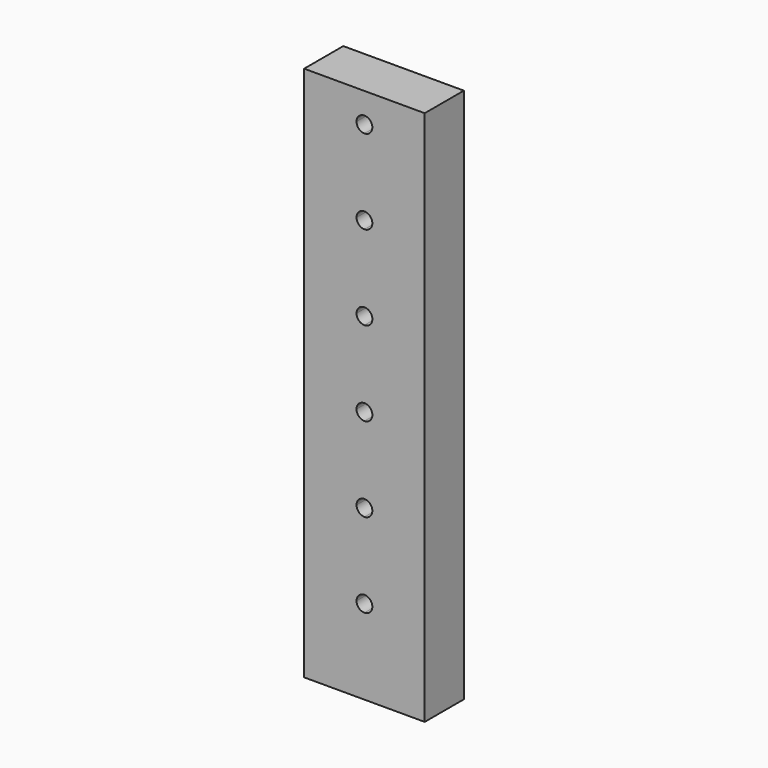
from build123d import *

# Parameters (mm, degrees)
F0_W     = 22.86
F0_H     = 9.271
F1_DEPTH = 101.6
F2_R     = 1.5
F3_DEPTH = 25.4


with BuildPart() as f1:
    # F0 (on Top) → F1 (new body)
    with BuildSketch(Plane.XY):
        Rectangle(F0_W, F0_H)
    extrude(amount=F1_DEPTH)

    # F2 (on face) → F3 (cut)
    with BuildSketch(Plane(origin=(0, 4.6355, 0), x_dir=(-1, 0, 0), z_dir=(0, 1, 0))):
        with BuildLine():
            ThreePointArc((0, 17.5), (-1.5, 16), (0, 14.5))
            Line((0, 14.5), (0, 17.5))
        make_face()
        with BuildLine():
            ThreePointArc((0, 97.5), (-1.5, 96), (0, 94.5))
            Line((0, 94.5), (0, 97.5))
        make_face()
        with BuildLine():
            Line((0, 97.5), (0, 94.5))
            ThreePointArc((0, 94.5), (1.06066, 94.93934), (1.5, 96))
            ThreePointArc((1.5, 96), (1.06066, 97.06066), (0, 97.5))
        make_face()
        with BuildLine():
            ThreePointArc((0, 81.5), (-1.5, 80), (0, 78.5))
            Line((0, 78.5), (0, 81.5))
        make_face()
        with BuildLine():
            Line((0, 81.5), (0, 78.5))
            ThreePointArc((0, 78.5), (1.06066, 78.93934), (1.5, 80))
            ThreePointArc((1.5, 80), (1.06066, 81.06066), (0, 81.5))
        make_face()
        with BuildLine():
            ThreePointArc((0, 65.5), (-1.5, 64), (0, 62.5))
            Line((0, 62.5), (0, 65.5))
        make_face()
        with BuildLine():
            Line((0, 65.5), (0, 62.5))
            ThreePointArc((0, 62.5), (1.06066, 62.93934), (1.5, 64))
            ThreePointArc((1.5, 64), (1.06066, 65.06066), (0, 65.5))
        make_face()
        with BuildLine():
            ThreePointArc((0, 49.5), (-1.5, 48), (0, 46.5))
            Line((0, 46.5), (0, 49.5))
        make_face()
        with BuildLine():
            Line((0, 49.5), (0, 46.5))
            ThreePointArc((0, 46.5), (1.06066, 46.93934), (1.5, 48))
            ThreePointArc((1.5, 48), (1.06066, 49.06066), (0, 49.5))
        make_face()
        with BuildLine():
            ThreePointArc((0, 33.5), (-1.5, 32), (0, 30.5))
            Line((0, 30.5), (0, 33.5))
        make_face()
        with BuildLine():
            Line((0, 33.5), (0, 30.5))
            ThreePointArc((0, 30.5), (1.06066, 30.93934), (1.5, 32))
            ThreePointArc((1.5, 32), (1.06066, 33.06066), (0, 33.5))
        make_face()
        with BuildLine():
            Line((0, 17.5), (0, 14.5))
            ThreePointArc((0, 14.5), (1.06066, 14.93934), (1.5, 16))
            ThreePointArc((1.5, 16), (1.06066, 17.06066), (0, 17.5))
        make_face()
        with Locations((0, 112)):
            Circle(F2_R)
    extrude(amount=-F3_DEPTH, mode=Mode.SUBTRACT)


solid = f1.part
